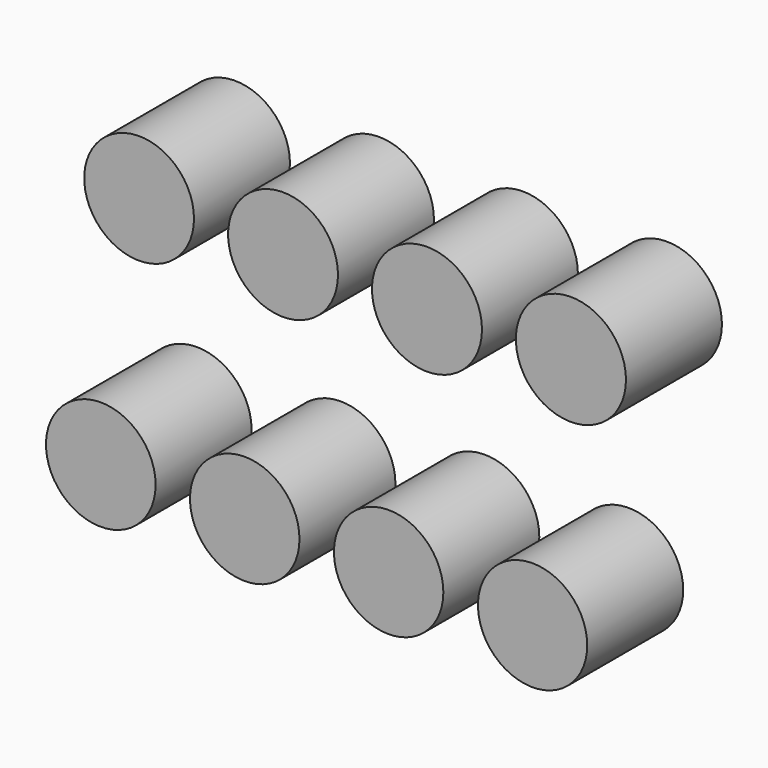
from build123d import *

# Parameters (mm, degrees)
F0_R     = 11.6332
F0_R_2   = 11.6459
F0_R_3   = 11.6205
F0_R_4   = 11.6586
F0_R_5   = 11.6078
F0_R_6   = 11.5951
F0_R_7   = 11.5824
F0_R_8   = 11.5697
F1_DEPTH = 25.4
F2_DEPTH = 25.4


with BuildPart() as f1:
    # F0 (on Front) → F1 (new body)
    with BuildSketch(Plane.XZ):
        with Locations((-20.935479, 32.609908)):
            Circle(F0_R)
        with Locations((9.544521, 32.339728)):
            Circle(F0_R_2)
        with Locations((-51.415479, 33.171)):
            Circle(F0_R_3)
        with Locations((40.024521, 32.887809)):
            Circle(F0_R_4)
        with Locations((-59.530361, -19.090859)):
            Circle(F0_R_5)
        with Locations((-29.050361, -19.305361)):
            Circle(F0_R_6)
        with Locations((1.429639, -19.305361)):
            Circle(F0_R_7)
        with Locations((31.909639, -19.305361)):
            Circle(F0_R_8)
    extrude(amount=F1_DEPTH)


with BuildPart() as f2:
    # F0 (on Front) → F2 (new body)
    with BuildSketch(Plane.XZ):
        with Locations((-20.935479, 32.609908)):
            Circle(F0_R)
        with Locations((9.544521, 32.339728)):
            Circle(F0_R_2)
        with Locations((-51.415479, 33.171)):
            Circle(F0_R_3)
        with Locations((40.024521, 32.887809)):
            Circle(F0_R_4)
        with Locations((-59.530361, -19.090859)):
            Circle(F0_R_5)
        with Locations((-29.050361, -19.305361)):
            Circle(F0_R_6)
        with Locations((1.429639, -19.305361)):
            Circle(F0_R_7)
        with Locations((31.909639, -19.305361)):
            Circle(F0_R_8)
    extrude(amount=F2_DEPTH)


solid = Compound([f1.part, f2.part])
